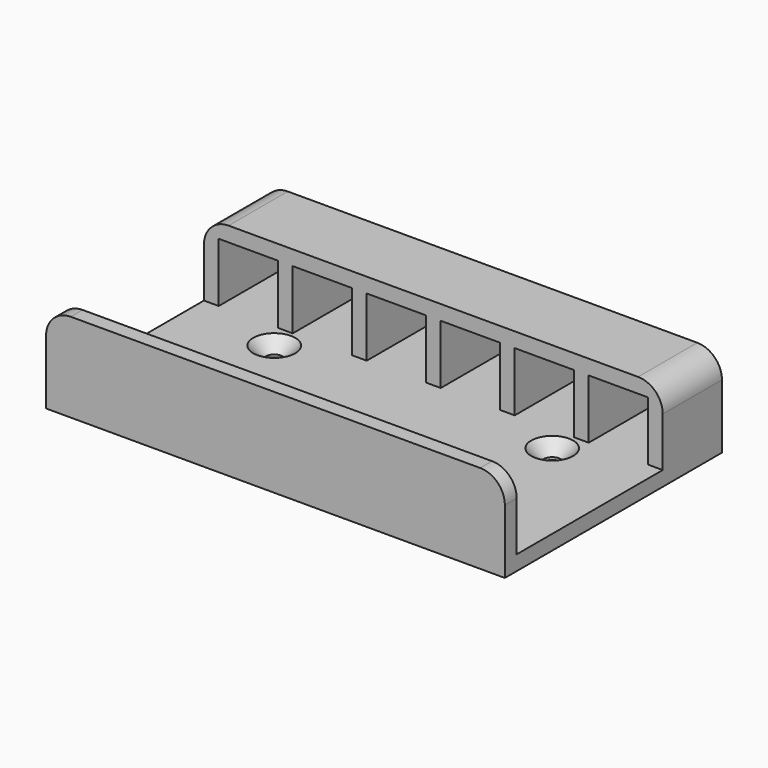
from build123d import *

# Parameters (mm, degrees)
F0_W     = 93
F0_H     = 55
F0_R     = 1.75
F1_DEPTH = 3
F2_W     = 93
F2_H     = 3
F2_H_2   = 15
F3_DEPTH = 15
F4_W     = 12
F4_H     = 12
F5_DEPTH = 15
F6_SIZE  = 2.5
F7_R     = 5


with BuildPart() as f1:
    # F0 (on Top) → F1 (new body)
    with BuildSketch(Plane.XY):
        with Locations((46.5, 27.5)):
            Rectangle(F0_W, F0_H)
        with Locations((18.325063, 34.906461)):
            Circle(F0_R, mode=Mode.SUBTRACT)
        with Locations((74.674937, 34.906461)):
            Circle(F0_R, mode=Mode.SUBTRACT)
    extrude(amount=F1_DEPTH)

    # F2 (on face) → F3 (join)
    with BuildSketch(Plane.XY.offset(3)):
        with Locations((46.5, 1.5)):
            Rectangle(F2_W, F2_H)
        with Locations((46.5, 47.5)):
            Rectangle(F2_W, F2_H_2)
    extrude(amount=F3_DEPTH)

    # F4 (on face) → F5 (cut, through all)
    with BuildSketch(Plane(origin=(0, 55, 0), x_dir=(-1, 0, 0), z_dir=(0, 1, 0))):
        with Locations((-84, 9)):
            Rectangle(F4_W, F4_H)
        with Locations((-69, 9)):
            Rectangle(F4_W, F4_H)
        with Locations((-54, 9)):
            Rectangle(F4_W, F4_H)
        with Locations((-39, 9)):
            Rectangle(F4_W, F4_H)
        with Locations((-24, 9)):
            Rectangle(F4_W, F4_H)
        with Locations((-9, 9)):
            Rectangle(F4_W, F4_H)
    extrude(amount=-F5_DEPTH, mode=Mode.SUBTRACT)

    # F6
    f6_edges = [f1.edges().sort_by_distance(p)[0] for p in [
        (16.575063, 34.906461, 3),
        (72.924937, 34.906461, 3),
    ]]
    chamfer(f6_edges, length=F6_SIZE)

    # F7
    f7_edges = [f1.edges().sort_by_distance(p)[0] for p in [
        (0, 47.5, 18),
        (93, 47.5, 18),
        (93, 1.5, 18),
        (0, 1.5, 18),
    ]]
    fillet(f7_edges, radius=F7_R)


solid = f1.part
